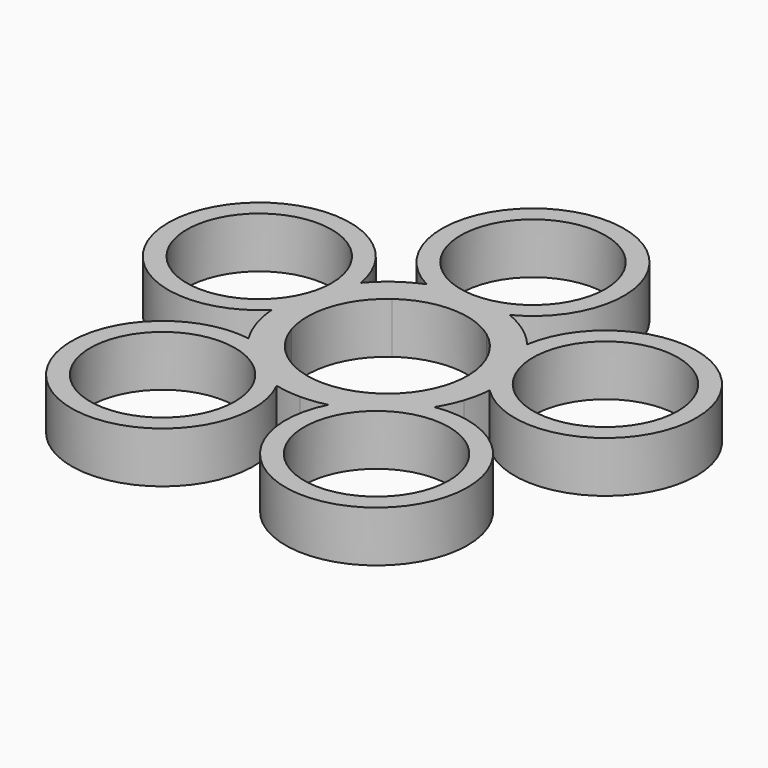
from build123d import *

# Parameters (mm, degrees)
F0_R     = 9.95
F1_DEPTH = 7


with BuildPart() as f1:
    # F0 (on Top) → F1 (new body)
    with BuildSketch(Plane.XY):
        with BuildLine():
            ThreePointArc((11.434665, 9.708164), (10.198183, 10.999867), (8.816779, 12.135255))
            ThreePointArc((8.816779, 12.135255), (7.310083, 13.098194), (5.699507, 13.875))
            ThreePointArc((5.699507, 13.875), (0, 37.5), (-5.699507, 13.875))
            ThreePointArc((-5.699507, 13.875), (-7.310083, 13.098194), (-8.816779, 12.135255))
            ThreePointArc((-8.816779, 12.135255), (-10.198183, 10.999867), (-11.434665, 9.708164))
            ThreePointArc((-11.434665, 9.708164), (-35.664619, 11.588137), (-14.957154, -1.132942))
            ThreePointArc((-14.957154, -1.132942), (-14.716063, -2.904738), (-14.265848, -4.635255))
            ThreePointArc((-14.265848, -4.635255), (-13.612907, -6.299903), (-12.766518, -7.875025))
            ThreePointArc((-12.766518, -7.875025), (-22.041947, -30.338137), (-3.544523, -14.575197))
            ThreePointArc((-3.544523, -14.575197), (-1.784944, -14.893421), (0, -15))
            ThreePointArc((0, -15), (1.784944, -14.893421), (3.544523, -14.575197))
            ThreePointArc((3.544523, -14.575197), (22.041947, -30.338137), (12.766518, -7.875025))
            ThreePointArc((12.766518, -7.875025), (13.612907, -6.299903), (14.265848, -4.635255))
            ThreePointArc((14.265848, -4.635255), (14.716063, -2.904738), (14.957154, -1.132942))
            ThreePointArc((14.957154, -1.132942), (35.664619, 11.588137), (11.434665, 9.708164))
        make_face()
        with Locations((-14.694631, -20.225425)):
            Circle(F0_R, mode=Mode.SUBTRACT)
        with Locations((14.694631, -20.225425)):
            Circle(F0_R, mode=Mode.SUBTRACT)
        with BuildLine():
            ThreePointArc((-6.465638, 8.899187), (0, 11), (6.465638, 8.899187))
            ThreePointArc((6.465638, 8.899187), (10.461622, 3.399187), (10.461622, -3.399187))
            ThreePointArc((10.461622, -3.399187), (6.465638, -8.899187), (0, -11))
            ThreePointArc((0, -11), (-6.465638, -8.899187), (-10.461622, -3.399187))
            ThreePointArc((-10.461622, -3.399187), (-10.461622, 3.399187), (-6.465638, 8.899187))
        make_face(mode=Mode.SUBTRACT)
        with Locations((-23.776413, 7.725425)):
            Circle(F0_R, mode=Mode.SUBTRACT)
        with Locations((23.776413, 7.725425)):
            Circle(F0_R, mode=Mode.SUBTRACT)
        with Locations((0, 25)):
            Circle(F0_R, mode=Mode.SUBTRACT)
    extrude(amount=F1_DEPTH)


solid = f1.part
